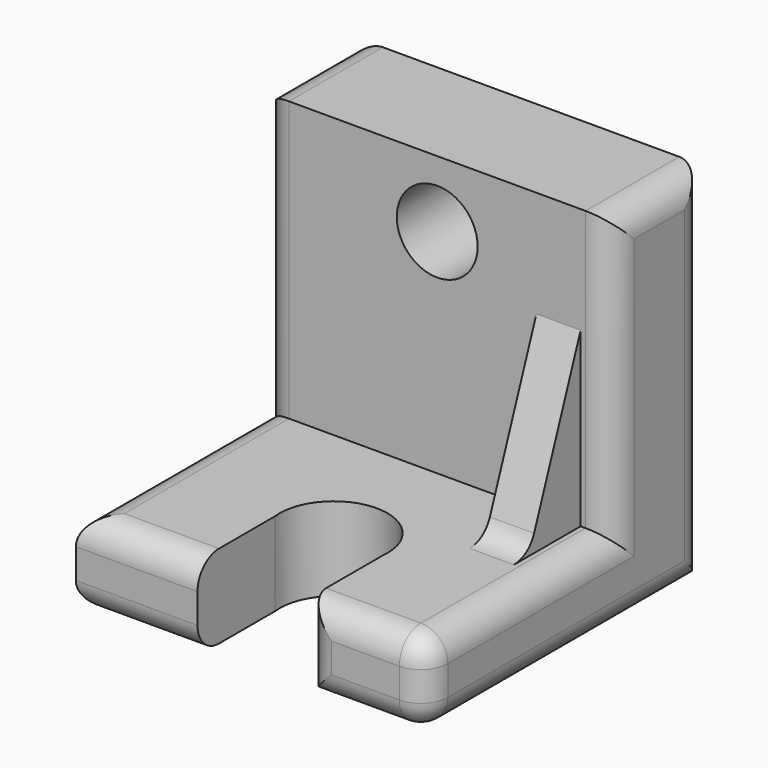
from build123d import *

# Parameters (mm, degrees)
F1_DEPTH = 65
F2_R     = 7.5
F3_DEPTH = 25
F5_DEPTH = 15.5081460252
F8_DEPTH = 4.1
F9_R     = 5


with BuildPart() as f1:
    # F0 (on Right) → F1 (new body)
    with BuildSketch(Plane.YZ):
        Polygon((-64.9103820324, 0), (0, 0), (0, 67.3085525632), (-21.7433813959, 67.3085525632), (-21.7433813959, 15.5081460252), (-64.9103820324, 15.5081460252), align=None)
    extrude(amount=F1_DEPTH)

    # F2 (on face) → F3 (cut)
    with BuildSketch(Plane.XZ.offset(21.7433813959)):
        with Locations((32.5, 54.9736991525)):
            Circle(F2_R)
    extrude(amount=-F3_DEPTH, mode=Mode.SUBTRACT)

    # F4 (on face) → F5 (cut, through all)
    with BuildSketch(Plane.XY.offset(15.5081460252)):
        with BuildLine():
            Line((42.4322629764, -64.9103820324), (42.4322629764, -46.9211071186))
            ThreePointArc((42.4322629764, -46.9211071186), (32.5, -35.7591466337), (22.5677370236, -46.9211071186))
            Line((22.5677370236, -46.9211071186), (22.5677370236, -64.9103820324))
            Line((22.5677370236, -64.9103820324), (42.4322629764, -64.9103820324))
        make_face()
    extrude(amount=-F5_DEPTH, mode=Mode.SUBTRACT)

    # F7 (on offset) → F8 (join, symmetric)
    with BuildSketch(Plane.YZ.offset(55)):
        Polygon((-21.7433813959, 15.5081460252), (-21.7433813959, 47.5081460252), (-33.7433813959, 15.5081460252), align=None)
    extrude(amount=F8_DEPTH, both=True)

    # F9
    f9_edges = [f1.edges().sort_by_distance(p)[0] for p in [
        (0, -10.871691, 67.308553),
        (65, -10.871691, 67.308553),
        (11.283869, -64.910382, 15.508146),
        (0, -43.326882, 15.508146),
        (0, -21.743381, 41.408349),
        (0, 0, 33.654276),
        (0, -32.455191, 0),
        (11.283869, -64.910382, 0),
        (65, -64.910382, 7.754073),
        (65, -43.326882, 15.508146),
        (65, -21.743381, 41.408349),
        (65, 0, 33.654276),
        (65, -32.455191, 0),
        (42.432263, -64.910382, 7.754073),
        (53.716131, -64.910382, 0),
        (53.716131, -64.910382, 15.508146),
        (55, -33.743381, 15.508146),
    ]]
    fillet(f9_edges, radius=F9_R)


solid = f1.part
